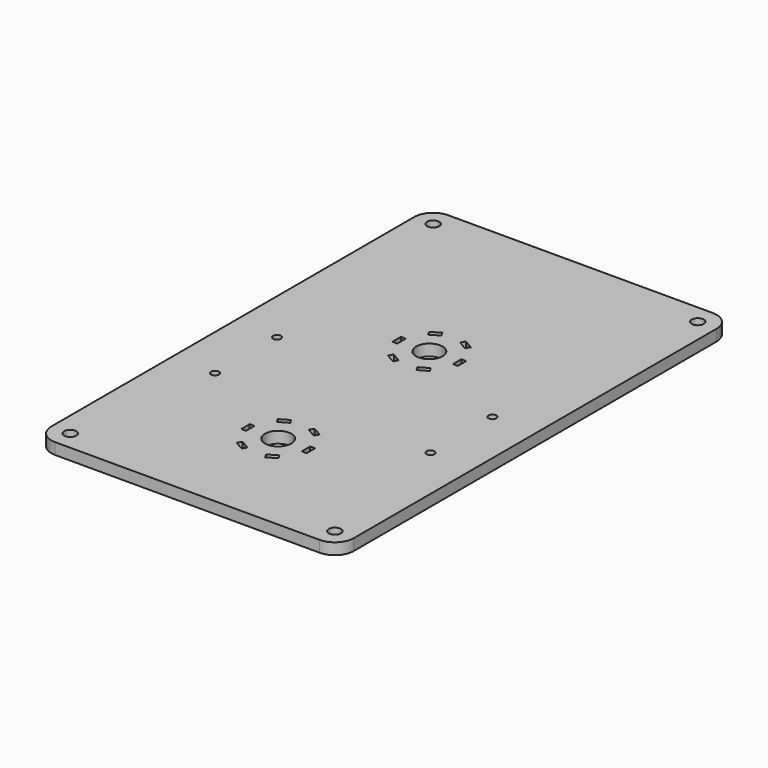
from build123d import *

# Parameters (mm, degrees)
F1_DEPTH = 3
F2_R     = 3.5
F2_W     = 1.3
F2_H     = 2.8
F3_DEPTH = 3.001
F4_R     = 1.05
F4_R_2   = 1.6
F5_DEPTH = 3.001


with BuildPart() as f1:
    # F0 (on Top) → F1 (new body)
    with BuildSketch(Plane.XY):
        with BuildLine():
            Line((35, 65), (-35, 65))
            ThreePointArc((-35, 65), (-38.535534, 63.535534), (-40, 60))
            Line((-40, 60), (-40, -60))
            ThreePointArc((-40, -60), (-38.535534, -63.535534), (-35, -65))
            Line((-35, -65), (35, -65))
            ThreePointArc((35, -65), (38.535534, -63.535534), (40, -60))
            Line((40, -60), (40, 60))
            ThreePointArc((40, 60), (38.535534, 63.535534), (35, 65))
        make_face()
    extrude(amount=F1_DEPTH)

    # F2 (on face) → F3 (cut, through all)
    with BuildSketch(Plane.XY.offset(3)):
        with Locations((0, 15)):
            Circle(F2_R)
        with Locations((0, -35)):
            Circle(F2_R)
        with Locations((-8, 15)):
            Rectangle(F2_W, F2_H)
        Polygon((-2.462564, 22.065287), (-3.112564, 23.19112), (-5.537436, 21.79112), (-4.887436, 20.665287), align=None)
        Polygon((4.887436, 20.665287), (5.537436, 21.79112), (3.112564, 23.19112), (2.462564, 22.065287), align=None)
        with Locations((8, 15)):
            Rectangle(F2_W, F2_H)
        Polygon((2.462564, 7.934713), (3.112564, 6.80888), (5.537436, 8.20888), (4.887436, 9.334713), align=None)
        Polygon((-4.887436, 9.334713), (-5.537436, 8.20888), (-3.112564, 6.80888), (-2.462564, 7.934713), align=None)
        with Locations((-8, -35)):
            Rectangle(F2_W, F2_H)
        Polygon((-4.887436, -40.665287), (-5.537436, -41.79112), (-3.112564, -43.19112), (-2.462564, -42.065287), align=None)
        Polygon((2.462564, -42.065287), (3.112564, -43.19112), (5.537436, -41.79112), (4.887436, -40.665287), align=None)
        with Locations((8, -35)):
            Rectangle(F2_W, F2_H)
        Polygon((4.887436, -29.334713), (5.537436, -28.20888), (3.112564, -26.80888), (2.462564, -27.934713), align=None)
        Polygon((-2.462564, -27.934713), (-3.112564, -26.80888), (-5.537436, -28.20888), (-4.887436, -29.334713), align=None)
    extrude(amount=-F3_DEPTH, mode=Mode.SUBTRACT)

    # F4 (on face) → F5 (cut, through all)
    with BuildSketch(Plane.XY.offset(3)):
        with Locations((-28.5, 0.25)):
            Circle(F4_R)
        with Locations((28.5, 0.25)):
            Circle(F4_R)
        with Locations((28.5, -20.25)):
            Circle(F4_R)
        with Locations((-28.5, -20.25)):
            Circle(F4_R)
        with Locations((-35, 60)):
            Circle(F4_R_2)
        with Locations((35, 60)):
            Circle(F4_R_2)
        with Locations((35, -60)):
            Circle(F4_R_2)
        with Locations((-35, -60)):
            Circle(F4_R_2)
    extrude(amount=-F5_DEPTH, mode=Mode.SUBTRACT)


solid = f1.part
